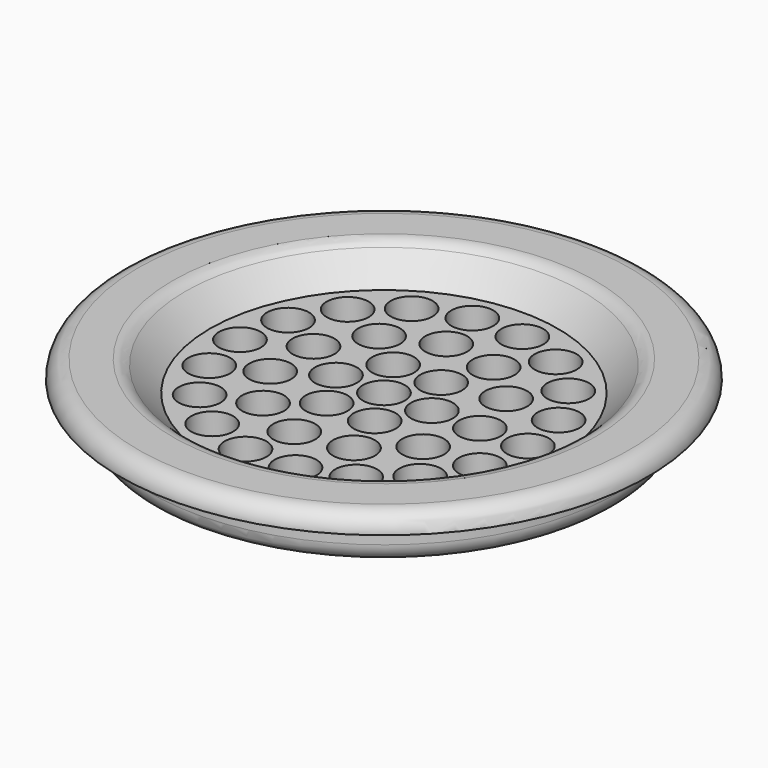
from build123d import *

# Parameters (mm, degrees)
F2_R     = 3.5
F3_DEPTH = 5


with BuildPart() as f1:
    # F0 (on Front) → F1 (revolve)
    with BuildSketch(Plane.XZ):
        with BuildLine():
            ThreePointArc((3, 0), (0.87868, -0.87868), (0, -3))
            Line((0, -3), (5, -3))
            Line((5, -3), (5, -7))
            ThreePointArc((5, -7), (5.87868, -9.12132), (8, -10))
            Line((8, -10), (44, -10))
            Line((44, -10), (44, -5))
            Line((44, -5), (15, -5))
            Line((15, -5), (10.87868, -0.87868))
            ThreePointArc((10.87868, -0.87868), (9.90541, -0.228361), (8.757359, 0))
            Line((8.757359, 0), (3, 0))
        make_face()
    revolve(axis=Axis((44, 0, 0.35411), (0, 0, 1)))

    # F2 (on face) → F3 (cut, through all)
    with BuildSketch(Plane.XY.offset(-5)):
        with Locations((44, 0)):
            Circle(F2_R)
        with Locations((52, 0)):
            Circle(F2_R)
        with Locations((60, 0)):
            Circle(F2_R)
        with Locations((68, 0)):
            Circle(F2_R)
        with Locations((48, 6.928203)):
            Circle(F2_R)
        with Locations((40, 6.928203)):
            Circle(F2_R)
        with Locations((36, 0)):
            Circle(F2_R)
        with Locations((40, -6.928203)):
            Circle(F2_R)
        with Locations((48, -6.928203)):
            Circle(F2_R)
        with Locations((57.460057, 8.650253)):
            Circle(F2_R)
        with Locations((50.64664, 14.554112)):
            Circle(F2_R)
        with Locations((41.722963, 15.837143)):
            Circle(F2_R)
        with Locations((33.522228, 12.091993)):
            Circle(F2_R)
        with Locations((28.648112, 4.507721)):
            Circle(F2_R)
        with Locations((28.648112, -4.507721)):
            Circle(F2_R)
        with Locations((33.522228, -12.091993)):
            Circle(F2_R)
        with Locations((41.722963, -15.837143)):
            Circle(F2_R)
        with Locations((50.64664, -14.554112)):
            Circle(F2_R)
        with Locations((57.460057, -8.650253)):
            Circle(F2_R)
        with Locations((66.552623, 8.208483)):
            Circle(F2_R)
        with Locations((62.385067, 15.426903)):
            Circle(F2_R)
        with Locations((56, 20.78461)):
            Circle(F2_R)
        with Locations((48.167556, 23.635386)):
            Circle(F2_R)
        with Locations((39.832444, 23.635386)):
            Circle(F2_R)
        with Locations((32, 20.78461)):
            Circle(F2_R)
        with Locations((25.614933, 15.426903)):
            Circle(F2_R)
        with Locations((21.447377, 8.208483)):
            Circle(F2_R)
        with Locations((20, 0)):
            Circle(F2_R)
        with Locations((21.447377, -8.208483)):
            Circle(F2_R)
        with Locations((25.614933, -15.426903)):
            Circle(F2_R)
        with Locations((32, -20.78461)):
            Circle(F2_R)
        with Locations((39.832444, -23.635386)):
            Circle(F2_R)
        with Locations((48.167556, -23.635386)):
            Circle(F2_R)
        with Locations((56, -20.78461)):
            Circle(F2_R)
        with Locations((62.385067, -15.426903)):
            Circle(F2_R)
        with Locations((66.552623, -8.208483)):
            Circle(F2_R)
    extrude(amount=-F3_DEPTH, mode=Mode.SUBTRACT)


solid = f1.part
